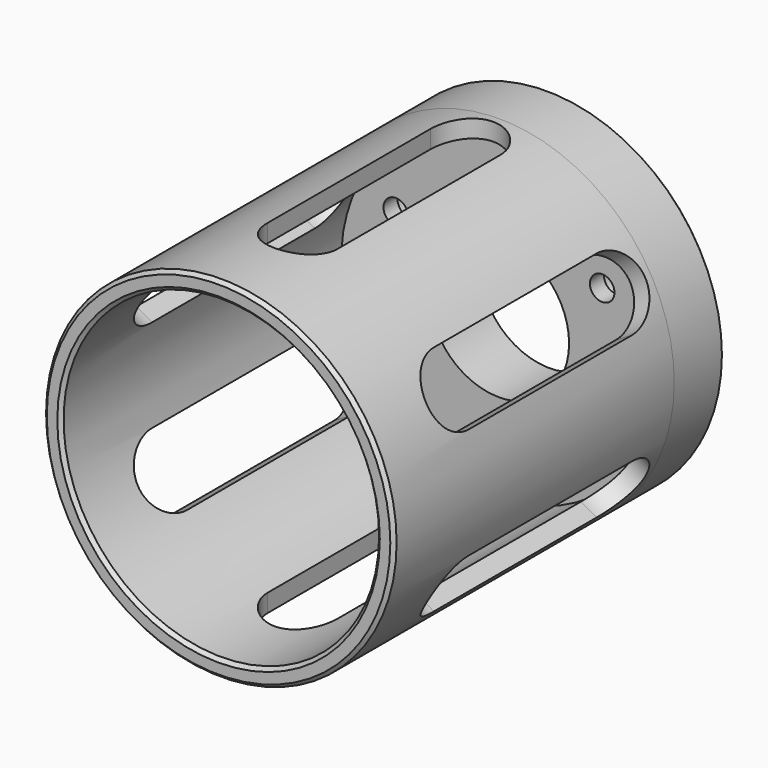
from build123d import *

# Parameters (mm, degrees)
F1_R           = 50
F1_R_2         = 45
F1_R_3         = 10
F1_R_4         = 20
F2_DEPTH       = 18
F1_R_5         = 8
F1_R_6         = 4.25
F1_R_7         = 3.5
F3_DEPTH       = 5
F4_DEPTH       = 100
F6_DEPTH       = 50.001
F6_DEPTH_BACK  = 50.001
F9_DEPTH       = 68.3022703266
F9_DEPTH_BACK  = 68.3022703266
F12_DEPTH      = 68.3022703266
F12_DEPTH_BACK = 68.3022703266
F13_SIZE       = 1


with BuildPart() as f2:
    # F1 (on Front) → F2 (new body)
    with BuildSketch(Plane.XZ):
        Circle(F1_R)
        Circle(F1_R_2, mode=Mode.SUBTRACT)
        Circle(F1_R_2)
        with Locations((-29.4448637287, -17)):
            Circle(F1_R_3, mode=Mode.SUBTRACT)
        with Locations((0, -34)):
            Circle(F1_R_3, mode=Mode.SUBTRACT)
        with Locations((29.4448637287, -17)):
            Circle(F1_R_3, mode=Mode.SUBTRACT)
        with Locations((-29.4448637287, 17)):
            Circle(F1_R_3, mode=Mode.SUBTRACT)
        Circle(F1_R_4, mode=Mode.SUBTRACT)
        with Locations((29.4448637287, 17)):
            Circle(F1_R_3, mode=Mode.SUBTRACT)
        with Locations((0, 34)):
            Circle(F1_R_3, mode=Mode.SUBTRACT)
    extrude(amount=-F2_DEPTH)



with BuildPart() as f2b:
    # F1 (on Front) → F2, piece 2 (new body)
    with BuildSketch(Plane.XZ):
        with Locations((-29.4448637287, 17)):
            Circle(F1_R_5)
        with Locations((-29.4448637287, 17)):
            Circle(F1_R_6, mode=Mode.SUBTRACT)
    extrude(amount=-F2_DEPTH)


with BuildPart() as f2c:
    # F1 (on Front) → F2, piece 3 (new body)
    with BuildSketch(Plane.XZ):
        with Locations((0, 34)):
            Circle(F1_R_5)
        with Locations((0, 34)):
            Circle(F1_R_6, mode=Mode.SUBTRACT)
    extrude(amount=-F2_DEPTH)


with BuildPart() as f2d:
    # F1 (on Front) → F2, piece 4 (new body)
    with BuildSketch(Plane.XZ):
        with Locations((29.4448637287, 17)):
            Circle(F1_R_5)
        with Locations((29.4448637287, 17)):
            Circle(F1_R_6, mode=Mode.SUBTRACT)
    extrude(amount=-F2_DEPTH)


with BuildPart() as f2e:
    # F1 (on Front) → F2, piece 5 (new body)
    with BuildSketch(Plane.XZ):
        with Locations((-29.4448637287, -17)):
            Circle(F1_R_5)
        with Locations((-29.4448637287, -17)):
            Circle(F1_R_6, mode=Mode.SUBTRACT)
    extrude(amount=-F2_DEPTH)


with BuildPart() as f2f:
    # F1 (on Front) → F2, piece 6 (new body)
    with BuildSketch(Plane.XZ):
        with Locations((0, -34)):
            Circle(F1_R_5)
        with Locations((0, -34)):
            Circle(F1_R_6, mode=Mode.SUBTRACT)
    extrude(amount=-F2_DEPTH)


with BuildPart() as f2g:
    # F1 (on Front) → F2, piece 7 (new body)
    with BuildSketch(Plane.XZ):
        with Locations((29.4448637287, -17)):
            Circle(F1_R_5)
        with Locations((29.4448637287, -17)):
            Circle(F1_R_6, mode=Mode.SUBTRACT)
    extrude(amount=-F2_DEPTH)


with BuildPart() as f2_1:
    add(f2.part)

    add(f2b.part)  # F3 merges F2b

    add(f2c.part)  # F3 merges F2c

    add(f2d.part)  # F3 merges F2d

    add(f2e.part)  # F3 merges F2e

    add(f2f.part)  # F3 merges F2f

    add(f2g.part)  # F3 merges F2g
    # F1 (on Front) → F3 (join)
    with BuildSketch(Plane.XZ):
        with Locations((0, 34)):
            Circle(F1_R_3)
        with Locations((0, 34)):
            Circle(F1_R_5, mode=Mode.SUBTRACT)
        with Locations((-29.4448637287, 17)):
            Circle(F1_R_3)
        with Locations((-29.4448637287, 17)):
            Circle(F1_R_5, mode=Mode.SUBTRACT)
        with Locations((-29.4448637287, -17)):
            Circle(F1_R_3)
        with Locations((-29.4448637287, -17)):
            Circle(F1_R_5, mode=Mode.SUBTRACT)
        with Locations((0, -34)):
            Circle(F1_R_3)
        with Locations((0, -34)):
            Circle(F1_R_5, mode=Mode.SUBTRACT)
        with Locations((29.4448637287, -17)):
            Circle(F1_R_3)
        with Locations((29.4448637287, -17)):
            Circle(F1_R_5, mode=Mode.SUBTRACT)
        with Locations((29.4448637287, 17)):
            Circle(F1_R_3)
        with Locations((29.4448637287, 17)):
            Circle(F1_R_5, mode=Mode.SUBTRACT)
        with Locations((-29.4448637287, 17)):
            Circle(F1_R_6)
        with Locations((-29.4448637287, 17)):
            Circle(F1_R_7, mode=Mode.SUBTRACT)
        with Locations((0, 34)):
            Circle(F1_R_6)
        with Locations((0, 34)):
            Circle(F1_R_7, mode=Mode.SUBTRACT)
        with Locations((29.4448637287, 17)):
            Circle(F1_R_6)
        with Locations((29.4448637287, 17)):
            Circle(F1_R_7, mode=Mode.SUBTRACT)
        with Locations((-29.4448637287, -17)):
            Circle(F1_R_6)
        with Locations((-29.4448637287, -17)):
            Circle(F1_R_7, mode=Mode.SUBTRACT)
        with Locations((0, -34)):
            Circle(F1_R_6)
        with Locations((0, -34)):
            Circle(F1_R_7, mode=Mode.SUBTRACT)
        with Locations((29.4448637287, -17)):
            Circle(F1_R_6)
        with Locations((29.4448637287, -17)):
            Circle(F1_R_7, mode=Mode.SUBTRACT)
    extrude(amount=-F3_DEPTH)

    # F1 (on Front) → F4 (join)
    with BuildSketch(Plane.XZ):
        Circle(F1_R)
        Circle(F1_R_2, mode=Mode.SUBTRACT)
    extrude(amount=F4_DEPTH)

    # F5 (on Top) → F6 (cut, two sides)
    with BuildSketch(Plane.XY) as f6_sk:
        with BuildLine():
            Line((10, -70), (10, -12))
            ThreePointArc((10, -12), (0, -2), (-10, -12))
            Line((-10, -12), (-10, -70))
            ThreePointArc((-10, -70), (0, -80), (10, -70))
        make_face()
    extrude(amount=-F6_DEPTH, mode=Mode.SUBTRACT)
    extrude(f6_sk.sketch, amount=F6_DEPTH_BACK, mode=Mode.SUBTRACT)

    # F8 (on line) → F9 (cut, two sides)
    with BuildSketch(Plane(origin=(0, 0, 0), x_dir=(0, 1, 0), z_dir=(0.8660254038, 0, -0.5))) as f9_sk:
        with BuildLine():
            Line((-70, -10), (-12, -10))
            ThreePointArc((-12, -10), (-2, 0), (-12, 10))
            Line((-12, 10), (-70, 10))
            ThreePointArc((-70, 10), (-80, 0), (-70, -10))
        make_face()
    extrude(amount=-F9_DEPTH, mode=Mode.SUBTRACT)
    extrude(f9_sk.sketch, amount=F9_DEPTH_BACK, mode=Mode.SUBTRACT)

    # F11 (on line) → F12 (cut, two sides)
    with BuildSketch(Plane(origin=(0, 0, 0), x_dir=(0, -1, 0), z_dir=(-0.8660254038, 0, -0.5))) as f12_sk:
        with BuildLine():
            Line((70, 10), (12, 10))
            ThreePointArc((12, 10), (2, 0), (12, -10))
            Line((12, -10), (70, -10))
            ThreePointArc((70, -10), (80, 0), (70, 10))
        make_face()
    extrude(amount=-F12_DEPTH, mode=Mode.SUBTRACT)
    extrude(f12_sk.sketch, amount=F12_DEPTH_BACK, mode=Mode.SUBTRACT)

    # F13
    f13_edges = [f2_1.edges().sort_by_distance(p)[0] for p in [
        (-45, -100, 0),
        (-50, -100, 0),
        (-50, 18, 0),
    ]]
    chamfer(f13_edges, length=F13_SIZE)


solid = f2_1.part
